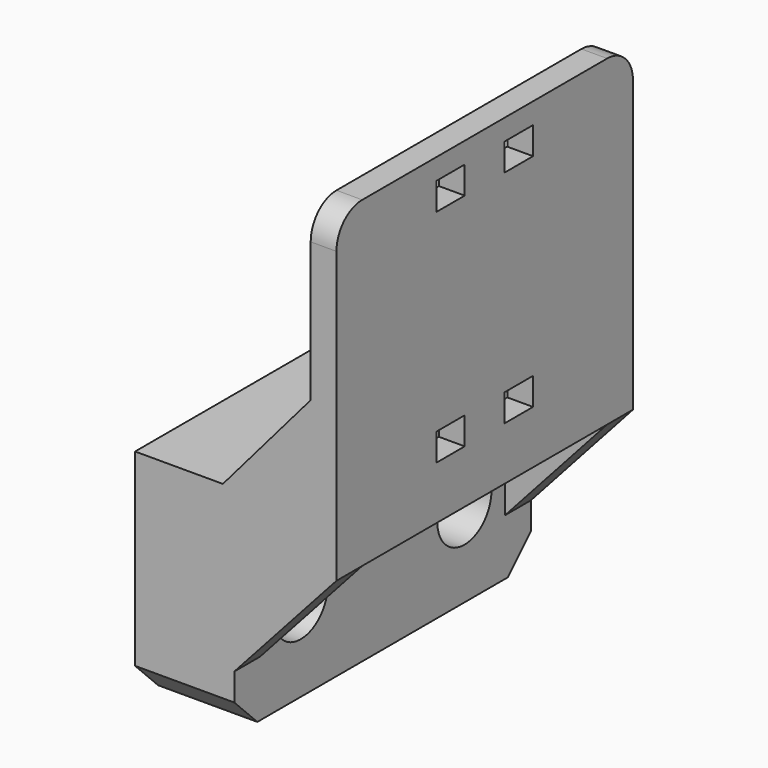
from build123d import *

# Parameters (mm, degrees)
F0_R     = 2.1
F1_DEPTH = 6.16
F2_W     = 23
F2_H     = 3
F3_DEPTH = 12.5
F4_W     = 23
F4_H     = 20
F4_W_2   = 2.2
F4_H_2   = 1.7
F5_DEPTH = 1.6
F8_DEPTH = 2
F12_R    = 2


with BuildPart() as f1:
    # F0 (on Right) → F1 (new body)
    with BuildSketch(Plane.YZ):
        Polygon((-9.7124977037, -5.25), (9.7124977037, -5.25), (11.5, -3.4624977037), (11.5, 3.4624977037), (11.5, 5.25), (9.7124977037, 5.25), (-9.7124977037, 5.25), (-11.5, 5.25), (-11.5, 3.4624977037), (-11.5, -3.4624977037), align=None)
        with Locations((-6.35, 0)):
            Circle(F0_R, mode=Mode.SUBTRACT)
        with Locations((6.35, 0)):
            Circle(F0_R, mode=Mode.SUBTRACT)
    extrude(amount=F1_DEPTH)

    # F2 (on face) → F3 (join)
    with BuildSketch(Plane(origin=(0, 0, 0), x_dir=(0, -1, 0), z_dir=(-1, 0, 0))):
        with Locations((0, 6.75)):
            Rectangle(F2_W, F2_H)
    extrude(amount=-F3_DEPTH)

    # F4 (on face) → F5 (join)
    with BuildSketch(Plane.YZ.offset(12.5)):
        with Locations((0, 15.25)):
            Rectangle(F4_W, F4_H)
        with Locations((-2.65, 9.4)):
            Rectangle(F4_W_2, F4_H_2, mode=Mode.SUBTRACT)
        with Locations((2.65, 9.4)):
            Rectangle(F4_W_2, F4_H_2, mode=Mode.SUBTRACT)
        with Locations((-2.65, 23.1)):
            Rectangle(F4_W_2, F4_H_2, mode=Mode.SUBTRACT)
        with Locations((2.65, 23.1)):
            Rectangle(F4_W_2, F4_H_2, mode=Mode.SUBTRACT)
    extrude(amount=-F5_DEPTH)

    # F6: union 

    # F7 (on face) → F8 (join)
    with BuildSketch(Plane(origin=(0, 11.5, 0), x_dir=(-1, 0, 0), z_dir=(0, 1, 0))):
        Polygon((-5.45, 8.25), (-10.9, 14.6002341062), (-10.9, 8.25), align=None)
        Polygon((-6.16, 5.25), (-12.5, 5.25), (-6.16, -1.7691504909), align=None)
    extrude(amount=-F8_DEPTH)

    # F10: F1 across plane


with BuildPart() as f1_1:
    add(f1.part)
    add(f1.part.mirror(Plane.XZ))

    # F11: F1 across plane


with BuildPart() as f1_2:
    add(f1_1.part)
    add(f1_1.part.mirror(Plane.XZ))

    # F12
    f12_edges = [f1_2.edges().sort_by_distance(p)[0] for p in [
        (11.7, 11.5, 25.25),
        (11.7, -11.5, 25.25),
    ]]
    fillet(f12_edges, radius=F12_R)


solid = f1_2.part
